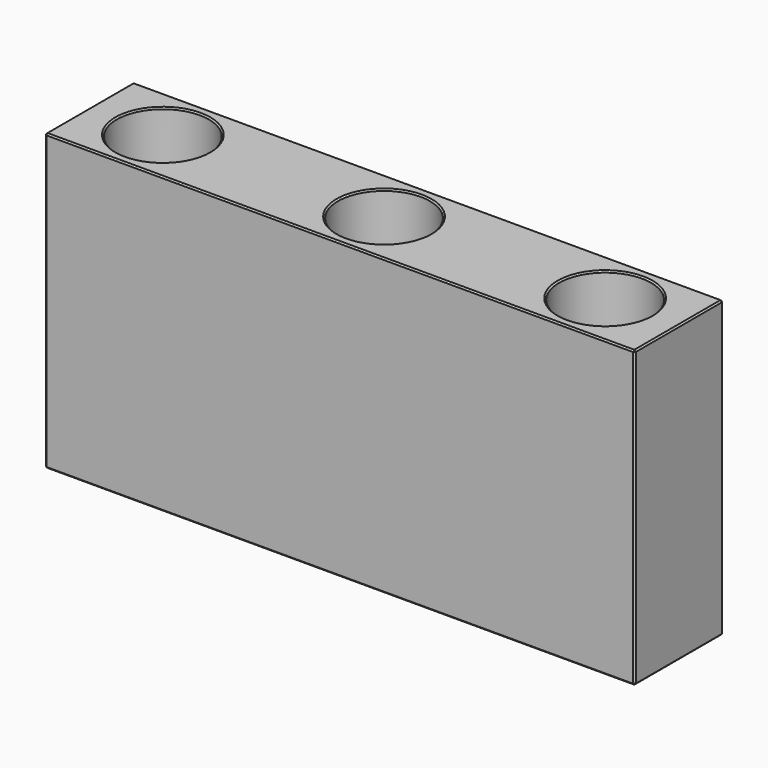
from build123d import *

# Parameters (mm, degrees)
F0_W     = 203.2
F0_H     = 38.1
F1_DEPTH = 101.6
F2_R     = 15.875
F3_DEPTH = 101.601
F4_SIZE  = 0.508


with BuildPart() as f1:
    # F0 (on Top) → F1 (new body)
    with BuildSketch(Plane.XY):
        with Locations((101.6, -19.05)):
            Rectangle(F0_W, F0_H)
    extrude(amount=F1_DEPTH)

    # F2 (on face) → F3 (cut, through all)
    with BuildSketch(Plane.XY.offset(101.6)):
        with Locations((25.4, -19.05)):
            Circle(F2_R)
        with Locations((177.8, -19.05)):
            Circle(F2_R)
        with Locations((101.6, -19.05)):
            Circle(F2_R)
    extrude(amount=-F3_DEPTH, mode=Mode.SUBTRACT)

    # F4
    f4_edges = [f1.edges().sort_by_distance(p)[0] for p in [
        (203.2, 0, 50.8),
        (203.2, -38.1, 50.8),
        (0, 0, 50.8),
        (0, -38.1, 50.8),
        (101.6, -38.1, 101.6),
        (0, -19.05, 101.6),
        (101.6, 0, 101.6),
        (101.6, -38.1, 0),
        (101.6, 0, 0),
        (0, -19.05, 0),
        (203.2, -19.05, 0),
        (203.2, -19.05, 101.6),
        (161.925, -19.05, 101.6),
        (85.725, -19.05, 101.6),
        (9.525, -19.05, 101.6),
        (9.525, -19.05, 0),
        (85.725, -19.05, 0),
        (161.925, -19.05, 0),
    ]]
    chamfer(f4_edges, length=F4_SIZE)


solid = f1.part
